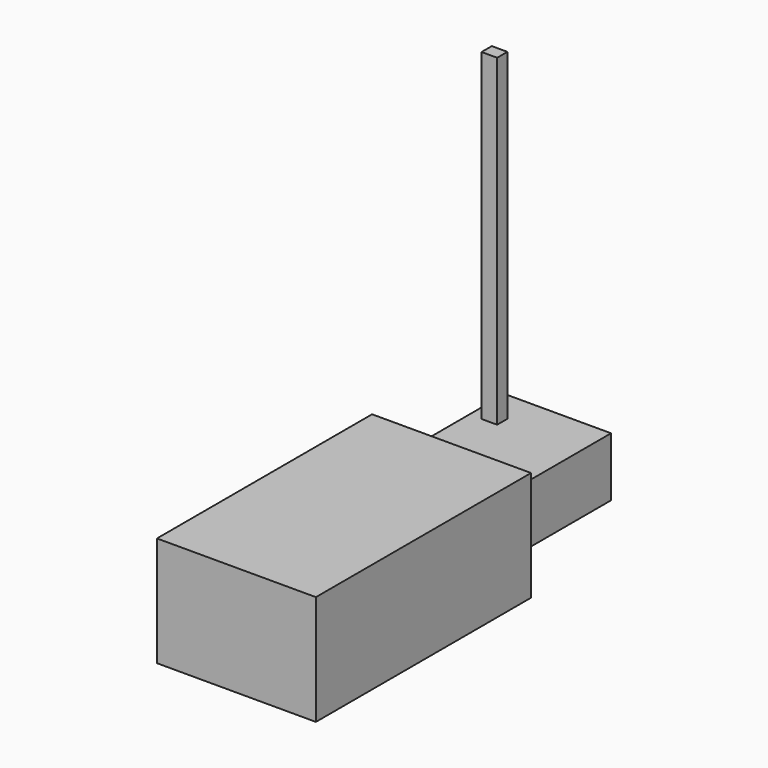
from build123d import *

# Parameters (mm, degrees)
F0_W     = 81.2292
F0_H     = 56.134
F1_DEPTH = 68.707
F2_W     = 54.3052
F2_H     = 30.1752
F3_DEPTH = 67.056
F4_W     = 7.969416
F4_H     = 6.550535
F5_DEPTH = 165.1


with BuildPart() as f1:
    # F0 (on Front) → F1 (new body, symmetric)
    with BuildSketch(Plane.XZ):
        with Locations((7.321676, 6.277784)):
            Rectangle(F0_W, F0_H)
    extrude(amount=F1_DEPTH, both=True)

    # F2 (on face) → F3 (join, symmetric)
    with BuildSketch(Plane(origin=(0, 68.707, 0), x_dir=(-1, 0, 0), z_dir=(0, 1, 0))):
        with Locations((-8.035632, 5.722342)):
            Rectangle(F2_W, F2_H)
    extrude(amount=F3_DEPTH, both=True)

    # F4 (on face) → F5 (join)
    with BuildSketch(Plane.XY.offset(20.809942)):
        with Locations((-8.885605, 116.388052)):
            Rectangle(F4_W, F4_H)
    extrude(amount=F5_DEPTH)


solid = f1.part
